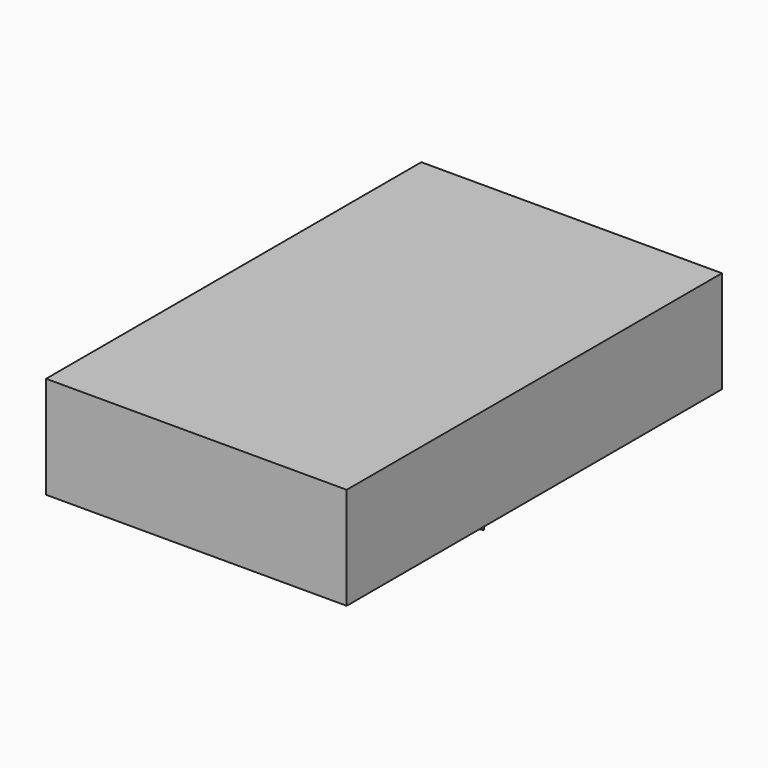
from build123d import *

# Parameters (mm, degrees)
F0_W     = 74.744492
F0_H     = 116.611682
F0_R     = 19.451918
F1_DEPTH = 25.4
F2_DEPTH = 23.622
F4_DEPTH = 74.745493


with BuildPart() as f1:
    # F0 (on Top) → F1 (new body)
    with BuildSketch(Plane.XY):
        Rectangle(F0_W, F0_H)
        Circle(F0_R, mode=Mode.SUBTRACT)
        Circle(F0_R)
    extrude(amount=F1_DEPTH)

    # F0 (on Top) → F2 (join)
    with BuildSketch(Plane.XY):
        Circle(F0_R)
    extrude(amount=-F2_DEPTH)

    # F3 (on face) → F4 (cut, through all)
    with BuildSketch(Plane.YZ.offset(37.372246)):
        Polygon((-19.451918, 0), (-19.451918, -23.622), (19.451918, -23.622), align=None)
    extrude(amount=-F4_DEPTH, mode=Mode.SUBTRACT)


solid = f1.part
